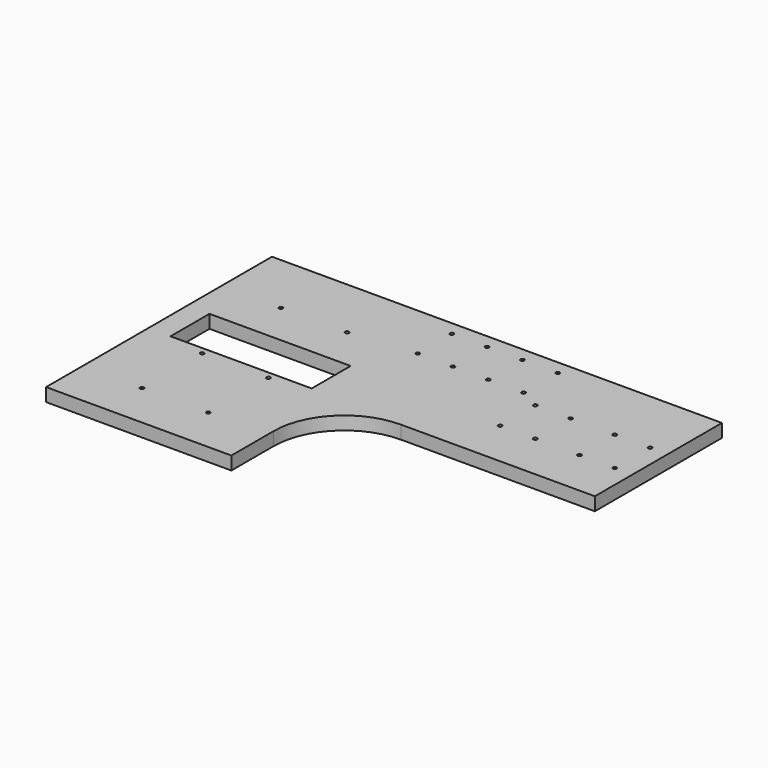
from build123d import *

# Parameters (mm, degrees)
F0_W     = 323.85
F0_H     = 203.2
F0_W_2   = 101.6
F0_H_2   = 35.052
F1_DEPTH = 9.525
F3_D     = 2.7178
F5_DEPTH = 9.526


with BuildPart() as f1:
    # F0 (on Top) → F1 (new body)
    with BuildSketch(Plane.XY):
        Rectangle(F0_W, F0_H)
        with Locations((-95.123, 7.874)):
            Rectangle(F0_W_2, F0_H_2, mode=Mode.SUBTRACT)
    extrude(amount=F1_DEPTH)

    # F3 (through all)
    with Locations(Plane.XY.offset(9.525)):
        with Locations((-119.0625, 56.134), (-71.4375, 56.134), (-119.0625, -14.732), (-71.4375, -14.732), (-119.0625, -68.834), (-71.4375, -68.834), (-24.33604, 60.706), (-24.33604, 91.44), (1.06396, 91.44), (1.06396, 60.706), (26.46396, 60.706), (26.46396, 91.44), (51.86396, 91.44), (51.86396, 60.706), (66.675, 52.832), (66.675, 21.082), (92.075, 21.082), (92.075, 52.832), (123.825, 52.832), (123.825, 21.082), (92.075, 52.832), (149.225, 52.832), (149.225, 21.082)):
            Hole(F3_D / 2)

    # F4 (on face) → F5 (cut, through all)
    with BuildSketch(Plane.XY.offset(9.525)):
        with BuildLine():
            Line((161.925, -101.6), (161.925, -12.7))
            Line((161.925, -12.7), (22.225, -12.7))
            ThreePointArc((22.225, -12.7), (-13.696024, -27.578976), (-28.575, -63.5))
            Line((-28.575, -63.5), (-28.575, -101.6))
            Line((-28.575, -101.6), (161.925, -101.6))
        make_face()
    extrude(amount=-F5_DEPTH, mode=Mode.SUBTRACT)


solid = f1.part
